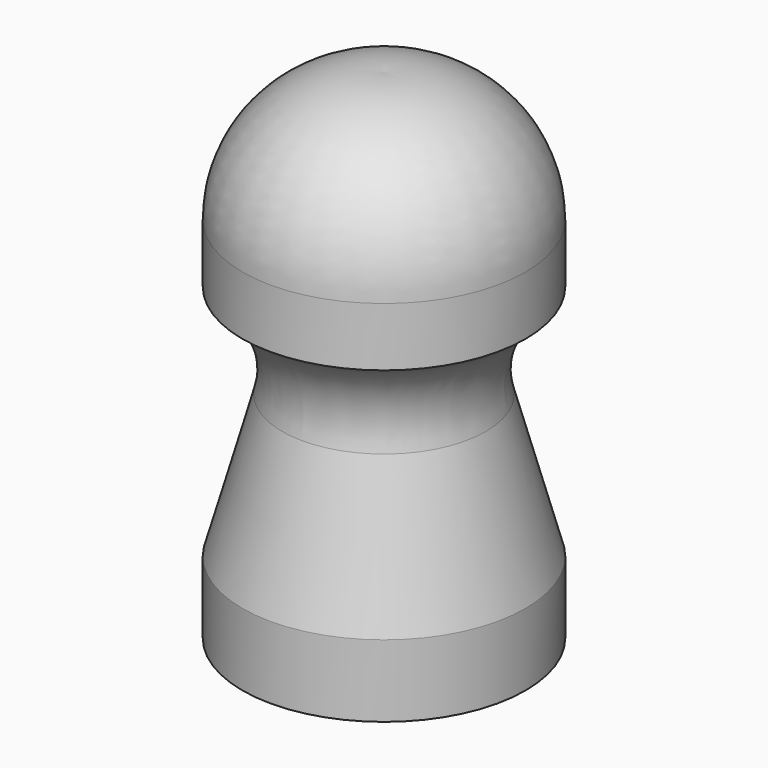
from build123d import *


with BuildPart() as f1:
    # F0 (on Front) → F1 (revolve)
    with BuildSketch(Plane.XZ):
        with BuildLine():
            Line((3.810368, 8.330995), (3.810368, 9.914751))
            ThreePointArc((3.810368, 9.914751), (2.674435, 12.504015), (0, 13.421638))
            Line((0, 13.421638), (0, 5.84856))
            Line((0, 5.84856), (1.46588, 5.84856))
            Line((1.46588, 5.84856), (2.862589, 0))
            Line((2.862589, 0), (3.810368, 0))
            Line((3.810368, 0), (3.810368, 1.945121))
            Line((3.810368, 1.945121), (2.74194, 5.790272))
            ThreePointArc((2.74194, 5.790272), (2.834557, 7.246334), (3.810368, 8.330995))
        make_face()
    revolve(axis=Axis((0, 0, 9.635099), (0, 0, 1)))


solid = f1.part
